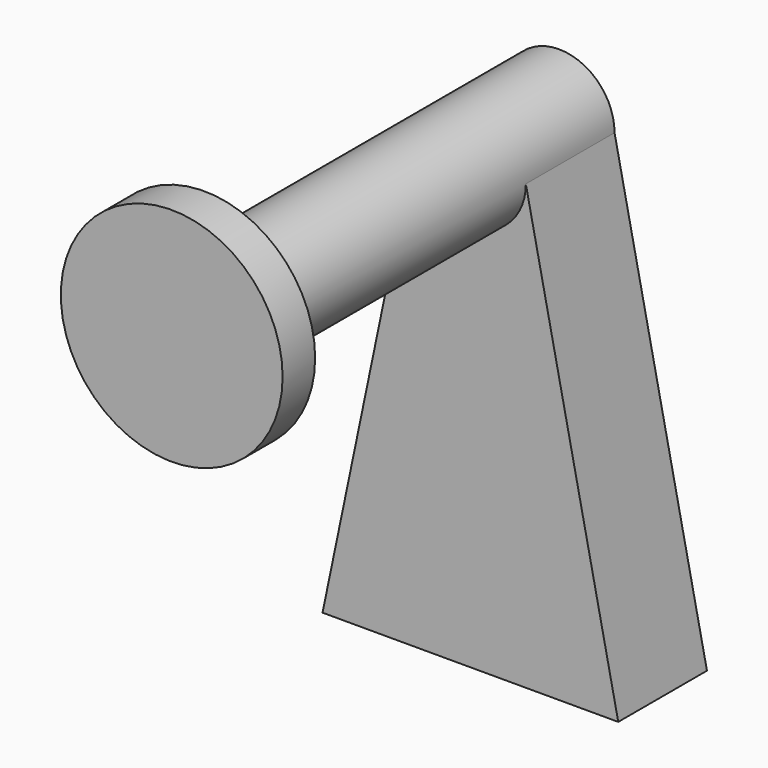
from build123d import *

# Parameters (mm, degrees)
F1_DEPTH = 609.6
F2_DEPTH = 152.4
F3_R     = 152.4
F4_DEPTH = 55.88


with BuildPart() as f1:
    # F0 (on Front) → F1 (new body)
    with BuildSketch(Plane.XZ):
        with BuildLine():
            ThreePointArc((-76.2, 0), (0, -76.2), (76.2, 0))
            ThreePointArc((76.2, 0), (0, 76.2), (-76.2, 0))
        make_face()
    extrude(amount=F1_DEPTH)

    # F0 (on Front) → F2 (join)
    with BuildSketch(Plane.XZ):
        with BuildLine():
            Line((203.2, -609.6), (76.2, 0))
            ThreePointArc((76.2, 0), (0, -76.2), (-76.2, 0))
            Line((-76.2, 0), (-203.2, -609.6))
            Line((-203.2, -609.6), (203.2, -609.6))
        make_face()
    extrude(amount=F2_DEPTH)

    # F3 (on face) → F4 (join)
    with BuildSketch(Plane.XZ.offset(609.6)):
        Circle(F3_R)
    extrude(amount=F4_DEPTH)


solid = f1.part
